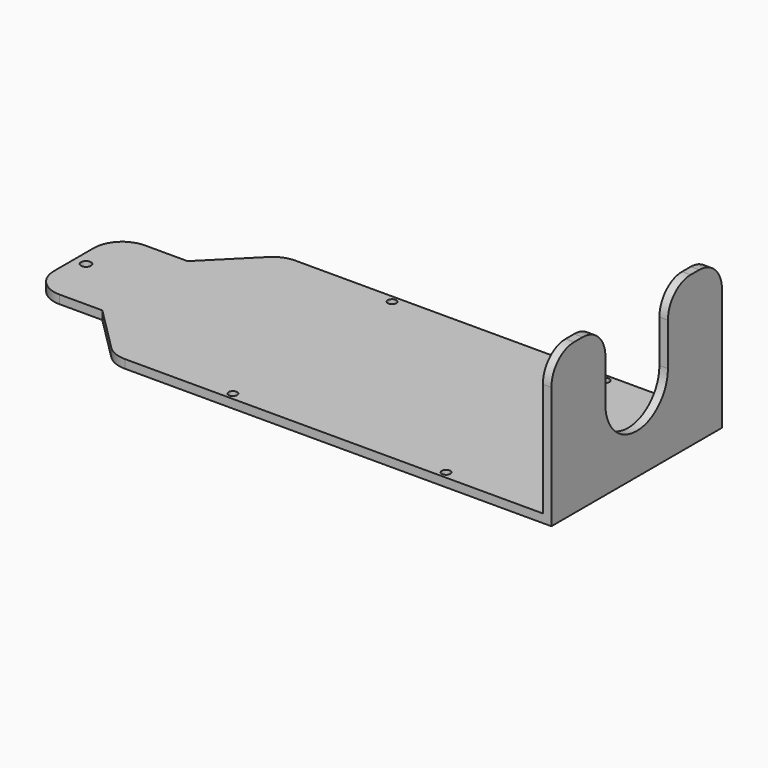
from build123d import *

# Parameters (mm, degrees)
F0_R          = 3.5
F1_DEPTH      = 3
F0_W          = 6
F0_H          = 150
F2_DEPTH      = 103
F2_DEPTH_BACK = 3
F4_DEPTH      = 25
F5_R          = 3
F6_DEPTH      = 25


with BuildPart() as f1:
    # F0 (on Top) → F1 (new body, symmetric)
    with BuildSketch(Plane.XY):
        with BuildLine():
            Line((-8.5, 17.5), (-8.5, 0))
            Line((-8.5, 0), (-8.5, -17.5))
            ThreePointArc((-8.5, -17.5), (-2.642136, -31.642136), (11.5, -37.5))
            Line((11.5, -37.5), (41.5, -37.5))
            Line((41.5, -37.5), (73.142136, -69.142136))
            ThreePointArc((73.142136, -69.142136), (79.630603, -73.477591), (87.284271, -75))
            Line((87.284271, -75), (381.5, -75))
            Line((381.5, -75), (381.5, 75))
            Line((381.5, 75), (87.284271, 75))
            ThreePointArc((87.284271, 75), (79.630603, 73.477591), (73.142136, 69.142136))
            Line((73.142136, 69.142136), (41.5, 37.5))
            Line((41.5, 37.5), (11.5, 37.5))
            ThreePointArc((11.5, 37.5), (-2.642136, 31.642136), (-8.5, 17.5))
        make_face()
        Circle(F0_R, mode=Mode.SUBTRACT)
    extrude(amount=F1_DEPTH, both=True)

    # F0 (on Top) → F2 (join, two sides)
    with BuildSketch(Plane.XY) as f2_sk:
        with Locations((384.5, 0)):
            Rectangle(F0_W, F0_H)
    extrude(amount=F2_DEPTH)
    extrude(f2_sk.sketch, amount=-F2_DEPTH_BACK)

    # F3 (on face) → F4 (cut)
    with BuildSketch(Plane(origin=(381.5, 0, 0), x_dir=(0, -1, 0), z_dir=(-1, 0, 0))):
        with BuildLine():
            ThreePointArc((27.5, 53), (0, 80.5), (-27.5, 53))
            ThreePointArc((-27.5, 53), (0, 25.5), (27.5, 53))
        make_face()
        with BuildLine():
            ThreePointArc((55, 103), (69.142136, 97.142136), (75, 83))
            Line((75, 83), (75, 103))
            Line((75, 103), (55, 103))
        make_face()
        with BuildLine():
            Line((-75, 103), (-75, 83))
            ThreePointArc((-75, 83), (-69.142136, 97.142136), (-55, 103))
            Line((-55, 103), (-75, 103))
        make_face()
        with BuildLine():
            Line((-27.5, 103), (-47.5, 103))
            ThreePointArc((-47.5, 103), (-33.357864, 97.142136), (-27.5, 83))
            Line((-27.5, 83), (-27.5, 53))
            ThreePointArc((-27.5, 53), (0, 80.5), (27.5, 53))
            Line((27.5, 53), (27.5, 83))
            ThreePointArc((27.5, 83), (33.357864, 97.142136), (47.5, 103))
            Line((47.5, 103), (32.5, 103))
            Line((32.5, 103), (-27.5, 103))
        make_face()
    extrude(amount=-F4_DEPTH, mode=Mode.SUBTRACT)

    # F5 (on face) → F6 (cut)
    with BuildSketch(Plane.XY.offset(3)):
        with Locations((159.392136, 70)):
            Circle(F5_R)
        with Locations((309.392136, 70)):
            Circle(F5_R)
        with Locations((309.392136, -70)):
            Circle(F5_R)
        with Locations((159.392136, -70)):
            Circle(F5_R)
    extrude(amount=-F6_DEPTH, mode=Mode.SUBTRACT)


solid = f1.part
